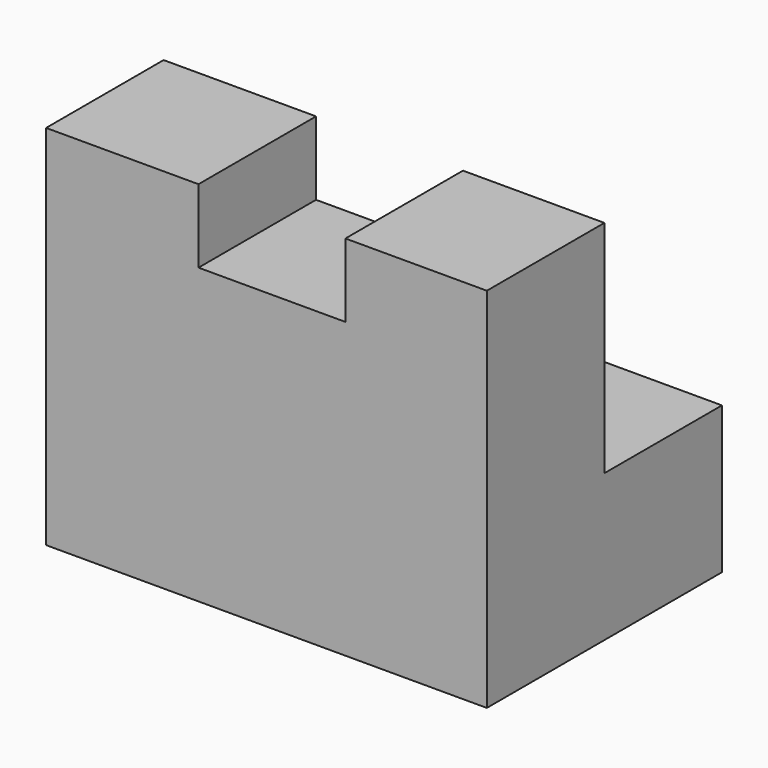
from build123d import *

# Parameters (mm, degrees)
F0_W     = 38.1
F0_H     = 31.75
F1_DEPTH = 25.4
F2_W     = 12.7
F2_H     = 19.05
F3_DEPTH = 254
F4_W     = 12.7
F4_H     = 6.35
F5_DEPTH = 25.4


with BuildPart() as f1:
    # F0 (on Front) → F1 (new body)
    with BuildSketch(Plane.XZ):
        with Locations((-41.704052, 15.875)):
            Rectangle(F0_W, F0_H)
    extrude(amount=F1_DEPTH)

    # F2 (on face) → F3 (cut)
    with BuildSketch(Plane(origin=(-60.754052, 0, 0), x_dir=(0, -1, 0), z_dir=(-1, 0, 0))):
        with Locations((6.35, 22.225)):
            Rectangle(F2_W, F2_H)
    extrude(amount=-F3_DEPTH, mode=Mode.SUBTRACT)

    # F4 (on face) → F5 (cut)
    with BuildSketch(Plane(origin=(0, -12.7, 0), x_dir=(-1, 0, 0), z_dir=(0, 1, 0))):
        with Locations((41.228399, 28.575)):
            Rectangle(F4_W, F4_H)
    extrude(amount=-F5_DEPTH, mode=Mode.SUBTRACT)


solid = f1.part
